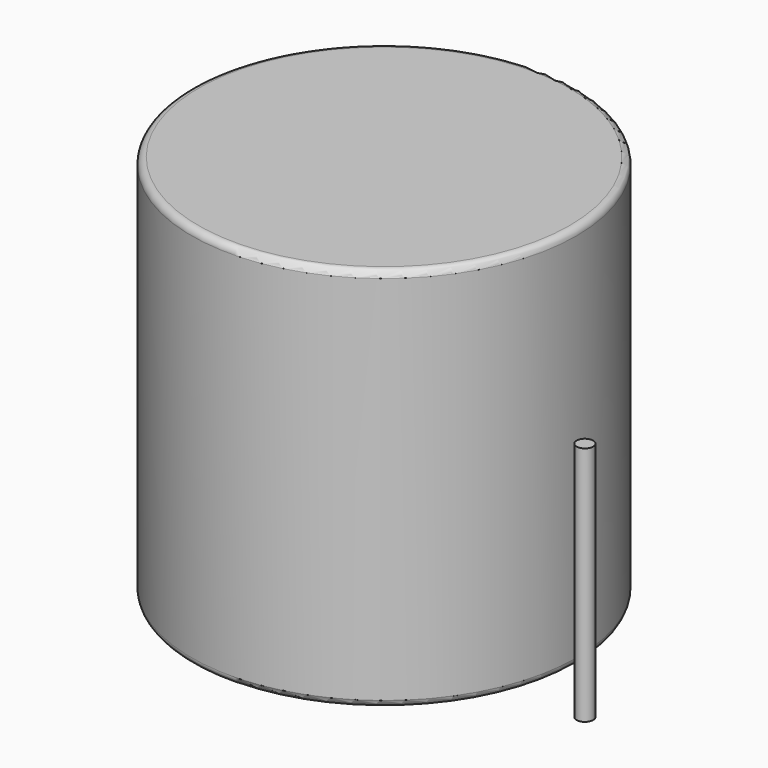
from build123d import *

# Parameters (mm, degrees)
SKETCH001_R       = 0.6
PAD001_DEPTH      = 14
PAD001_DEPTH_BACK = 3.5
SKETCH_R          = 14
PAD_DEPTH         = 28
FILLET_R          = 0.5


with BuildPart() as pad001:
    # Sketch001 → Pad001 (new body, two sides)
    with BuildSketch(Plane.XY.offset(0.5)) as pad001_sk:
        Circle(SKETCH001_R)
        with Locations((29.2, 0)):
            Circle(SKETCH001_R)
    extrude(amount=PAD001_DEPTH)
    extrude(pad001_sk.sketch, amount=-PAD001_DEPTH_BACK)


with BuildPart() as l_radial_d28_0mm_p29_20mm:
    # Sketch → Pad (new body)
    with BuildSketch(Plane.XY.offset(0.1)):
        with Locations((14.6, 0)):
            Circle(SKETCH_R)
    extrude(amount=PAD_DEPTH)

    # Fillet
    fillet_edges = [l_radial_d28_0mm_p29_20mm.edges().sort_by_distance(p)[0] for p in [
        (0.6, 0, 0.1),
        (0.6, 0, 28.1),
    ]]
    fillet(fillet_edges, radius=FILLET_R)

    add(pad001.part)


solid = l_radial_d28_0mm_p29_20mm.part
